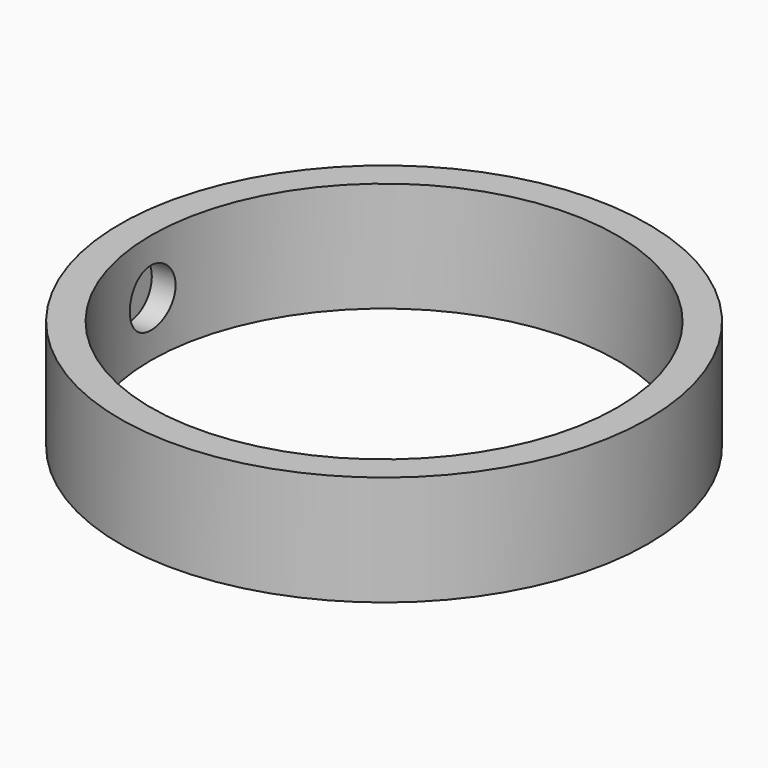
from build123d import *

# Parameters (mm, degrees)
F0_R          = 15.24
F0_R_2        = 13.462
F1_DEPTH      = 3.175
F2_R          = 1.651
F3_DEPTH      = 14.732
F3_DEPTH_BACK = 14.732


with BuildPart() as f1:
    # F0 (on Top) → F1 (new body, symmetric)
    with BuildSketch(Plane.XY):
        Circle(F0_R)
        Circle(F0_R_2, mode=Mode.SUBTRACT)
    extrude(amount=F1_DEPTH, both=True)

    # F2 (on Right) → F3 (cut, two sides)
    with BuildSketch(Plane.YZ) as f3_sk:
        Circle(F2_R)
    extrude(amount=-F3_DEPTH, mode=Mode.SUBTRACT)
    extrude(f3_sk.sketch, amount=F3_DEPTH_BACK, mode=Mode.SUBTRACT)


solid = f1.part
